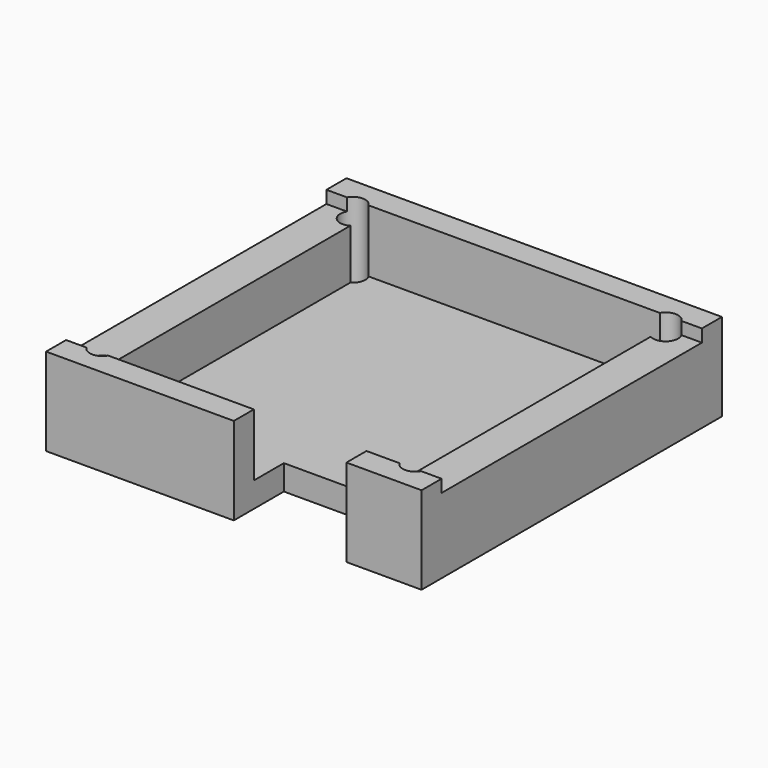
from build123d import *

# Parameters (mm, degrees)
SKETCH_W     = 30
SKETCH_H     = 30
PAD_DEPTH    = 2
SKETCH001_W  = 3
SKETCH001_H  = 26
PAD001_DEPTH = 4
SKETCH002_W  = 30
SKETCH002_H  = 2
PAD002_DEPTH = 5
SKETCH003_R  = 1
SKETCH003_W  = 9
SKETCH003_H  = 5
POCKET_DEPTH = 10


with BuildPart() as part:
    # Sketch → Pad (new body)
    with BuildSketch(Plane.XY):
        Rectangle(SKETCH_W, SKETCH_H)
    extrude(amount=PAD_DEPTH)

    # Sketch001 (on Face6 of Pad) → Pad001 (join)
    with BuildSketch(Plane.XY.offset(2)):
        with Locations((-13.5, 0)):
            Rectangle(SKETCH001_W, SKETCH001_H)
        with Locations((13.5, 0)):
            Rectangle(SKETCH001_W, SKETCH001_H)
    extrude(amount=PAD001_DEPTH)

    # Sketch002 (on Face5 of Pad001) → Pad002 (join)
    with BuildSketch(Plane.XY.offset(2)):
        with Locations((0, -14)):
            Rectangle(SKETCH002_W, SKETCH002_H)
        with Locations((0, 14)):
            Rectangle(SKETCH002_W, SKETCH002_H)
    extrude(amount=PAD002_DEPTH)

    # Sketch003 (on Face16 of Pad002) → Pocket (cut)
    with BuildSketch(Plane.XY.offset(7)):
        with Locations((-12.5, 12.5)):
            Circle(SKETCH003_R)
        with Locations((-12.5, -12.5)):
            Circle(SKETCH003_R)
        with Locations((12.5, -12.5)):
            Circle(SKETCH003_R)
        with Locations((12.5, 12.5)):
            Circle(SKETCH003_R)
        with Locations((4.5, -12.5)):
            Rectangle(SKETCH003_W, SKETCH003_H)
    extrude(amount=-POCKET_DEPTH, mode=Mode.SUBTRACT)


solid = part.part
